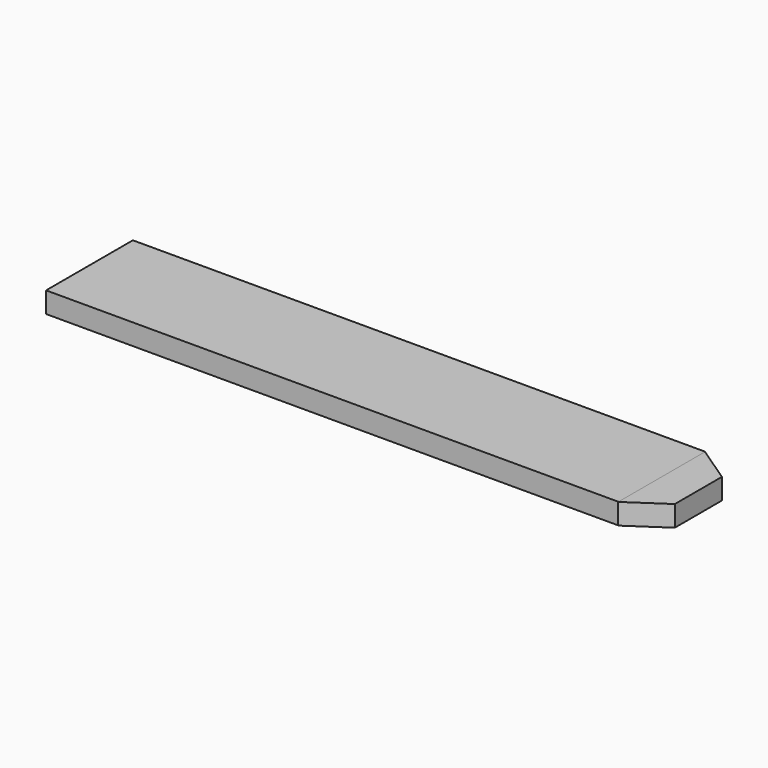
from build123d import *

# Parameters (mm, degrees)
PAD003_DEPTH = 2.5
BOX012_W     = 68.6
BOX012_H     = 13
BOX012_DEPTH = 2.5


with BuildPart() as body003:
    # Sketch003 → Pad003 (new body)
    with BuildSketch(Plane.XY):
        Polygon((77.600006, 29.467833), (82.003212, 26.497833), (82.003212, 19.437833), (77.600006, 16.467833), align=None)
    extrude(amount=PAD003_DEPTH)


with BuildPart() as body003_1:
    # Body003 placement: moved
    add(body003.part.moved(Location((0, 0, 1.6))))


with BuildPart() as backlight_panel:
    # Box012 → Box012 (new body)
    with BuildSketch(Plane(origin=(9, 16.5, 1.6), x_dir=(1, 0, 0), z_dir=(0, 0, 1))):
        with Locations((34.3, 6.5)):
            Rectangle(BOX012_W, BOX012_H)
    extrude(amount=BOX012_DEPTH)

    # Fusion002003: union Body003
    add(body003_1.part)


solid = backlight_panel.part
